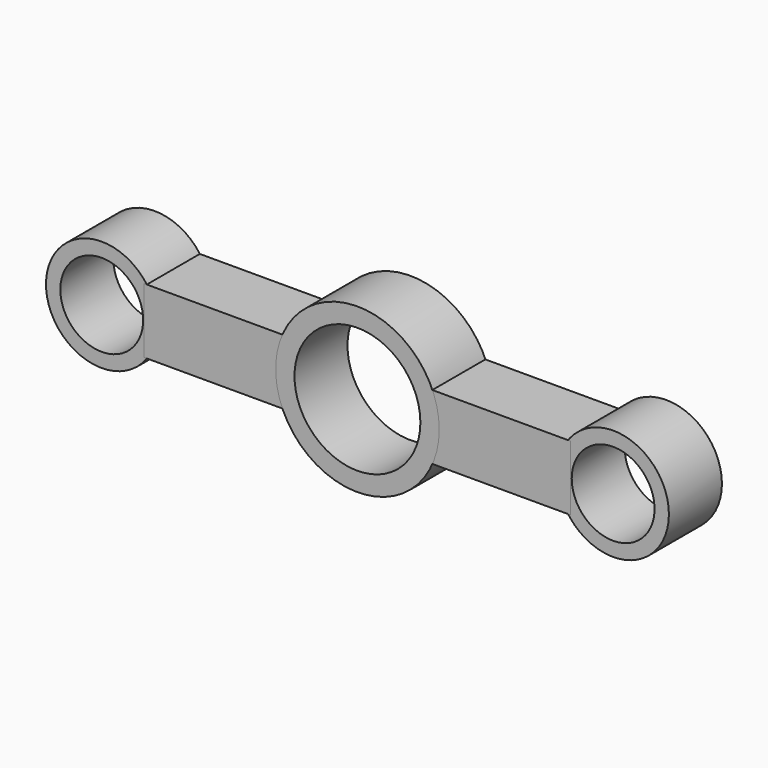
from build123d import *

# Parameters (mm, degrees)
F1_R     = 21.3399819069
F4_DEPTH = 25.4
F3_W     = 54.8592060804
F3_H     = 24.9362587929
F0_R     = 31.349181605
F0_R_2   = 24.13
F5_D     = 31.75
F5_2_D   = 31.75


with BuildPart() as f4:
    # F1 (on Front) → F4 (new body)
    with BuildSketch(Plane.XZ):
        with Locations((-98.0279445648, 0)):
            Circle(F1_R)
    extrude(amount=F4_DEPTH)

    # F5 (through all)
    with Locations(Plane(origin=(0, 0, 0), x_dir=(1, 0, 0), z_dir=(0, 1, 0))):
        with Locations((97.9970778847, 0), (-97.9970778847, 0)):
            Hole(F5_D / 2)


with BuildPart() as f4b:
    # F1 (on Front) → F4, piece 2 (new body)
    with BuildSketch(Plane.XZ):
        with Locations((98.0279445648, 0)):
            Circle(F1_R)
    extrude(amount=F4_DEPTH)

    # F5#2 (through all)
    with Locations(Plane(origin=(0, 0, 0), x_dir=(1, 0, 0), z_dir=(0, 1, 0))):
        with Locations((97.9970778847, 0), (-97.9970778847, 0)):
            Hole(F5_2_D / 2)


with BuildPart() as f4c:
    # F3 (on Front) → F4, piece 3 (new body)
    with BuildSketch(Plane.XZ):
        with Locations((-54.3159097433, 0)):
            Rectangle(F3_W, F3_H)
    extrude(amount=F4_DEPTH)


with BuildPart() as f4d:
    # F3 (on Front) → F4, piece 4 (new body)
    with BuildSketch(Plane.XZ):
        with Locations((54.3159097433, 0)):
            Rectangle(F3_W, F3_H)
    extrude(amount=F4_DEPTH)


with BuildPart() as f4e:
    # F0 (on Front) → F4, piece 5 (new body)
    with BuildSketch(Plane.XZ):
        Circle(F0_R)
        Circle(F0_R_2, mode=Mode.SUBTRACT)
    extrude(amount=F4_DEPTH)


solid = Compound([f4.part, f4b.part, f4c.part, f4d.part, f4e.part])
